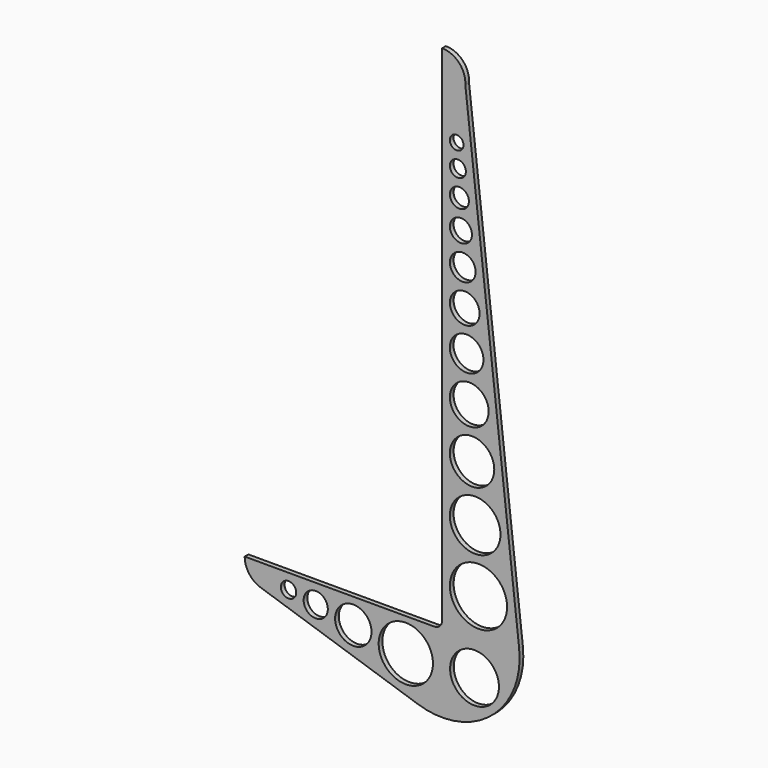
from build123d import *

# Parameters (mm, degrees)
F0_R     = 4.956318
F0_R_2   = 7.804407
F0_R_3   = 11.7458
F0_R_4   = 17.514293
F0_R_5   = 15.761864
F0_R_6   = 18.457915
F0_R_7   = 16.326177
F0_R_8   = 14.32171
F0_R_9   = 12.512164
F0_R_10  = 10.860537
F0_R_11  = 9.585776
F0_R_12  = 8.313707
F0_R_13  = 7.132231
F0_R_14  = 6.141689
F0_R_15  = 5.179872
F0_R_16  = 4.413107
F1_DEPTH = 3


with BuildPart() as f1:
    # F0 (on Front) → F1 (new body)
    with BuildSketch(Plane.XZ):
        with BuildLine():
            Line((0, 330.225899), (0, 5))
            ThreePointArc((0, 5), (-1.464466, 1.464466), (-5, 0))
            Line((-5, 0), (-127.430571, 0))
            ThreePointArc((-127.430571, 0), (-124.57635, -8.802275), (-117.099898, -14.254732))
            Line((-117.099898, -14.254732), (-15.950802, -47.387466))
            ThreePointArc((-15.950802, -47.387466), (31.403294, -38.908008), (49.686587, 5.589552))
            Line((49.686587, 5.589552), (14.96646, 314.223358))
            ThreePointArc((14.96646, 314.223358), (10.955321, 325.47192), (0, 330.225899))
        make_face()
        with Locations((-99.128214, -9.683417)):
            Circle(F0_R, mode=Mode.SUBTRACT)
        with Locations((-81.580238, -12.423659)):
            Circle(F0_R_2, mode=Mode.SUBTRACT)
        with Locations((-57.324761, -16.214516)):
            Circle(F0_R_3, mode=Mode.SUBTRACT)
        with Locations((-23.44218, -21.286219)):
            Circle(F0_R_4, mode=Mode.SUBTRACT)
        with Locations((20.886815, -20.647926)):
            Circle(F0_R_5, mode=Mode.SUBTRACT)
        with Locations((23.458004, 26.465479)):
            Circle(F0_R_6, mode=Mode.SUBTRACT)
        with Locations((21.30311, 66.19111)):
            Circle(F0_R_7, mode=Mode.SUBTRACT)
        with Locations((19.320155, 101.783802)):
            Circle(F0_R_8, mode=Mode.SUBTRACT)
        with Locations((17.507274, 133.566004)):
            Circle(F0_R_9, mode=Mode.SUBTRACT)
        with Locations((15.810489, 161.887425)):
            Circle(F0_R_10, mode=Mode.SUBTRACT)
        with Locations((14.585382, 187.303893)):
            Circle(F0_R_11, mode=Mode.SUBTRACT)
        with Locations((13.294787, 210.166829)):
            Circle(F0_R_12, mode=Mode.SUBTRACT)
        with Locations((12.115698, 230.578711)):
            Circle(F0_R_13, mode=Mode.SUBTRACT)
        with Locations((11.140754, 248.826591)):
            Circle(F0_R_14, mode=Mode.SUBTRACT)
        with Locations((10.144833, 265.117734)):
            Circle(F0_R_15, mode=Mode.SUBTRACT)
        with Locations((9.378797, 279.69045)):
            Circle(F0_R_16, mode=Mode.SUBTRACT)
    extrude(amount=F1_DEPTH)


solid = f1.part
